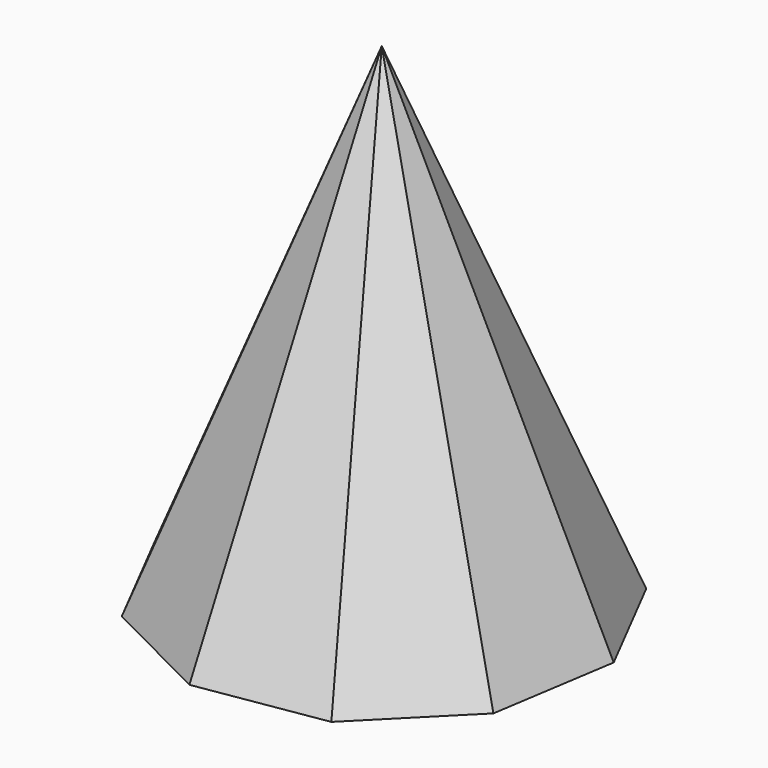
from build123d import *


with BuildPart() as f3:
    # F0 (on Top) → F3 section 0
    with BuildSketch(Plane.XY, mode=Mode.PRIVATE) as f3_s0:
        Polygon((-48.755121, 95.049578), (-95.312461, 48.239183), (-105.463681, -16.996941), (-75.331359, -75.74081), (-16.425019, -105.554265), (48.755121, -95.049578), (95.312461, -48.239183), (105.463681, 16.996941), (75.331359, 75.74081), (16.425019, 105.554265), align=None)
    loft([Vertex(-0.582952, -0.728688, 254), f3_s0.sketch])


solid = f3.part
